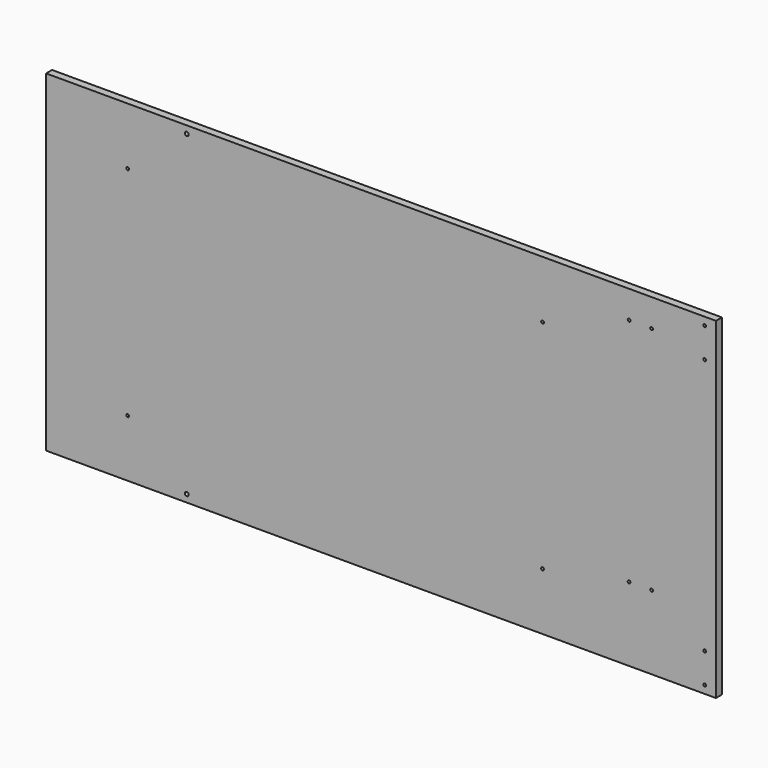
from build123d import *

# Parameters (mm, degrees)
F1_DEPTH = 12.7
F3_D     = 4.826
F5_D     = 6.477
F7_D     = 4.826


with BuildPart() as f1:
    # F0 (on Front) → F1 (new body)
    with BuildSketch(Plane.XZ):
        Polygon((293.7256, -281.3812), (293.7256, 281.3812), (-381, 281.3812), (-736.6, 281.3812), (-780.238727, 281.3812), (-802.05809, 281.3812), (-803.32809, 281.3812), (-841.418803, 281.3812), (-841.418803, -281.3812), (-803.32809, -281.3812), (-802.05809, -281.3812), (-780.238727, -281.3812), (-736.6, -281.3812), (-381, -281.3812), align=None)
    extrude(amount=F1_DEPTH)

    # F3 (through all)
    with Locations(Plane.XZ.offset(12.7)):
        with Locations((184.787571, 234.475727), (146.619245, 234.475727), (184.787571, -155.850366), (146.619245, -155.850366), (274.670382, -268.0716), (274.670382, 268.0716), (274.670382, 217.2716), (274.670382, -217.2716)):
            Hole(F3_D / 2)

    # F5 (through all)
    with Locations(Plane.XZ.offset(12.7)):
        with Locations((-602.95257, -268.6812), (-602.95257, 268.6812)):
            Hole(F5_D / 2)

    # F7 (through all)
    with Locations(Plane.XZ.offset(12.7)):
        with Locations((-703.14033, 184.1373), (-703.14033, -184.1373), (0, 184.1373), (0, -184.1373)):
            Hole(F7_D / 2)


solid = f1.part
